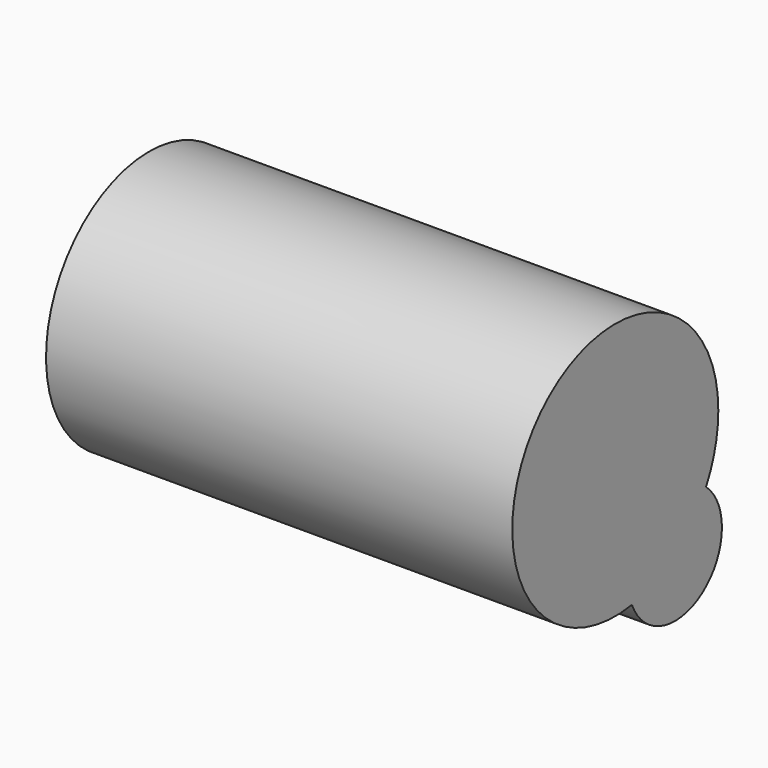
from build123d import *

# Parameters (mm, degrees)
F1_DEPTH = 98.552


with BuildPart() as f1:
    # F0 (on Right) → F1 (new body)
    with BuildSketch(Plane.YZ):
        with BuildLine():
            ThreePointArc((29.2036091015, -12.8815386495), (31.6218194265, -6.6414828292), (32.4444637271, 0))
            ThreePointArc((32.4444637271, 0), (-15.5175109192, 17.6287729684), (9.6109045895, -26.8649050361))
            ThreePointArc((9.6109045895, -26.8649050361), (13.857796975, -12.0976315852), (29.2036091015, -12.8815386495))
        make_face()
        with BuildLine():
            ThreePointArc((29.2036091015, -12.8815386495), (13.857796975, -12.0976315852), (9.6109045895, -26.8649050361))
            ThreePointArc((9.6109045895, -26.8649050361), (21.0368865251, -22.1565670612), (29.2036091015, -12.8815386495))
        make_face()
        with BuildLine():
            ThreePointArc((29.2036091015, -12.8815386495), (21.0368865251, -22.1565670612), (9.6109045895, -26.8649050361))
            ThreePointArc((9.6109045895, -26.8649050361), (23.4367409816, -34.2793641091), (33.3949409706, -22.1565670612))
            ThreePointArc((33.3949409706, -22.1565670612), (32.2984652758, -17.0675245463), (29.2036091015, -12.8815386495))
        make_face()
    extrude(amount=F1_DEPTH)


solid = f1.part
